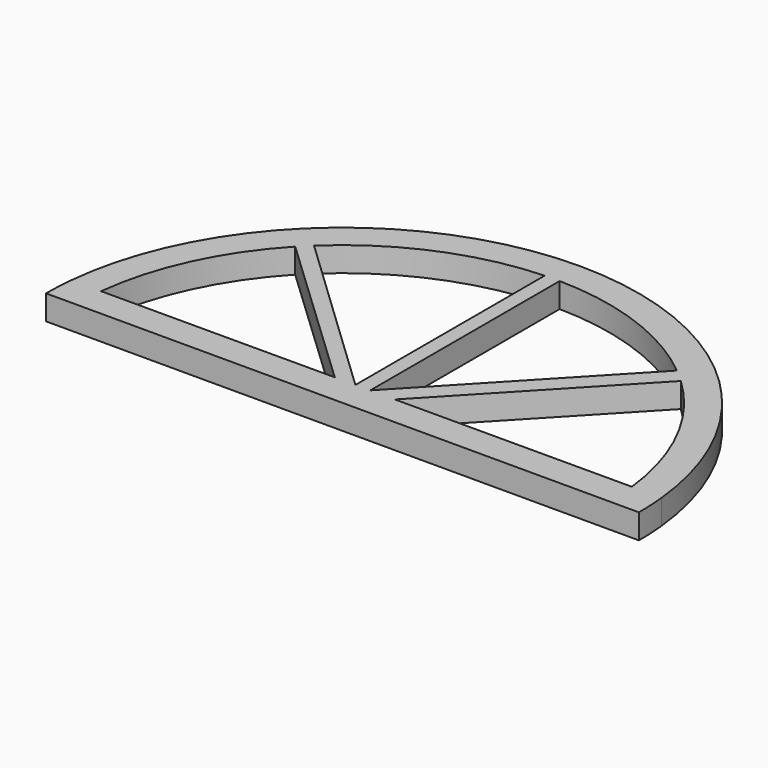
from build123d import *

# Parameters (mm, degrees)
F1_DEPTH = 25


with BuildPart() as f1:
    # F0 (on Top) → F1 (new body)
    with BuildSketch(Plane.XY):
        with BuildLine():
            Line((0, 0), (300, 0))
            ThreePointArc((300, 0), (299.605025, 15.389251), (298.42114, 30.73798))
            ThreePointArc((298.42114, 30.73798), (-0.390638, 299.999746), (-298.500177, 29.960712))
            ThreePointArc((-298.500177, 29.960712), (-299.62481, 14.999114), (-300, 0))
            Line((-300, 0), (0, 0))
        make_face()
        with BuildLine():
            Line((-196.236159, 185.449103), (-32.070548, 30.307638))
            Line((-32.070548, 30.307638), (-268.328157, 30))
            ThreePointArc((-268.328157, 30), (-244.941027, 113.595304), (-196.236159, 185.449103))
        make_face(mode=Mode.SUBTRACT)
        with BuildLine():
            ThreePointArc((185.449103, 196.236159), (241.477085, 120.784177), (268.24912, 30.698693))
            Line((268.24912, 30.698693), (28.716435, 30.38679))
            Line((28.716435, 30.38679), (185.449103, 196.236159))
        make_face(mode=Mode.SUBTRACT)
        with BuildLine():
            Line((-11.216572, 30.349398), (-185.634573, 196.060718))
            ThreePointArc((-185.634573, 196.060718), (-105.098735, 248.705158), (-11.216572, 269.766915))
            Line((-11.216572, 269.766915), (-11.216572, 30.349398))
        make_face(mode=Mode.SUBTRACT)
        with BuildLine():
            Line((171.869842, 208.23246), (3.783428, 30.36893))
            Line((3.783428, 30.36893), (3.783428, 269.973491))
            ThreePointArc((3.783428, 269.973491), (93.094073, 253.443275), (171.869842, 208.23246))
        make_face(mode=Mode.SUBTRACT)
    extrude(amount=F1_DEPTH)


solid = f1.part
